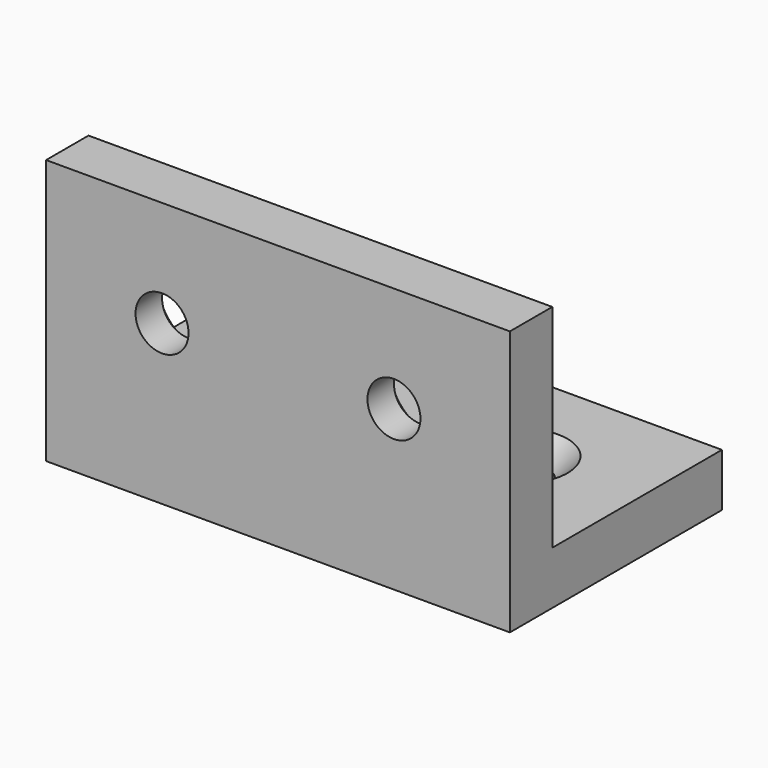
from build123d import *

# Parameters (mm, degrees)
F0_W                 = 35
F0_H                 = 20
F1_DEPTH             = 4
F2_W                 = 35
F2_H                 = 4
F3_DEPTH             = 16
F6_D                 = 4
F6_CSINK_D           = 7
F6_CSINK_ANGLE       = 90
F6_ON_F4_D           = 4
F6_ON_F4_CSINK_D     = 7
F6_ON_F4_CSINK_ANGLE = 90


with BuildPart() as f1:
    # F0 (on Top) → F1 (new body)
    with BuildSketch(Plane.XY):
        with Locations((2.2826059621, 10)):
            Rectangle(F0_W, F0_H)
    extrude(amount=F1_DEPTH)

    # F2 (on face) → F3 (join)
    with BuildSketch(Plane.XY.offset(4)):
        with Locations((2.2826059621, 2)):
            Rectangle(F2_W, F2_H)
    extrude(amount=F3_DEPTH)

    # F6 (through all)
    with Locations(Plane.XY.offset(4)):
        with Locations((11.0326059621, 12), (-6.4673940379, 12)):
            CounterSinkHole(F6_D / 2, F6_CSINK_D / 2, counter_sink_angle=F6_CSINK_ANGLE)

    # F6 on F4 (through all)
    with Locations(Plane(origin=(0, 4, 0), x_dir=(-1, 0, 0), z_dir=(0, 1, 0))):
        with Locations((6.4673940379, 12), (-11.0326059621, 12)):
            CounterSinkHole(F6_ON_F4_D / 2, F6_ON_F4_CSINK_D / 2, counter_sink_angle=F6_ON_F4_CSINK_ANGLE)


solid = f1.part
